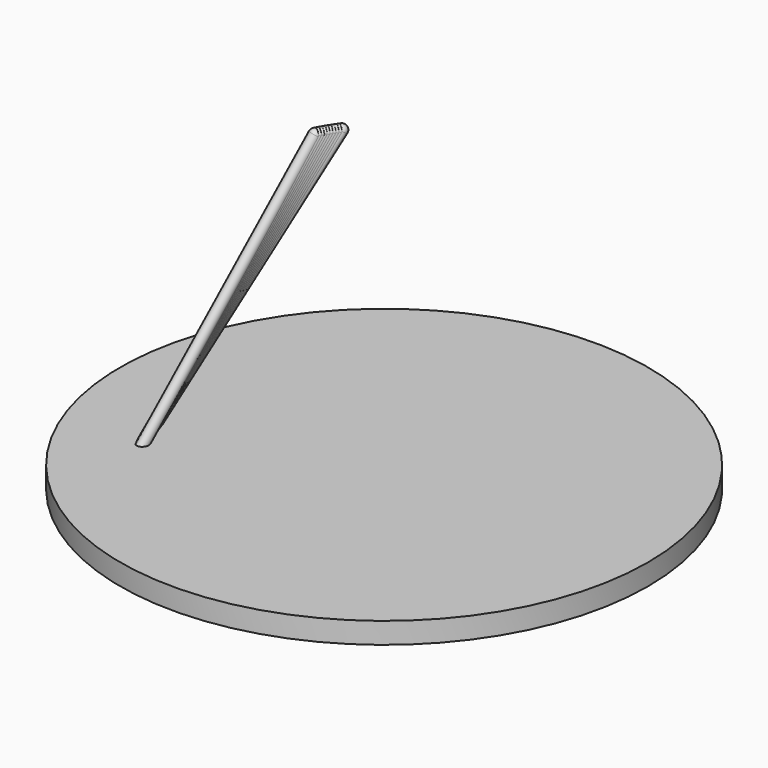
from build123d import *

# Parameters (mm, degrees)
F0_R     = 63.5
F0_R_2   = 12.7
F1_DEPTH = 5.08
F5_ANGLE = 70
F7_COUNT = 10
F7_ANGLE = 10


with BuildPart() as f1:
    # F0 (on Top) → F1 (new body)
    with BuildSketch(Plane.XY):
        Circle(F0_R)
        Circle(F0_R_2, mode=Mode.SUBTRACT)
        Circle(F0_R_2)
    extrude(amount=F1_DEPTH)


with BuildPart() as f3:
    # F2 (on Front) → F3 (revolve)
    with BuildSketch(Plane.XZ):
        Polygon((-19.1215575247, 61.0874523446), (-57.7548104137, 4.4245176234), (-56.7324640707, 3.7274735151), (-18.0992111818, 60.3904082363), align=None)
        with BuildLine():
            ThreePointArc((-17.4021670735, 61.4127545792), (-18.3292345978, 61.6062008838), (-19.1215575247, 61.0874523446))
            Line((-19.1215575247, 61.0874523446), (-18.0992111818, 60.3904082363))
            Line((-18.0992111818, 60.3904082363), (-17.4021670735, 61.4127545792))
        make_face()
    revolve(axis=Axis((-37.0673155721, 0, 32.5701140472), (-0.5633311882, 0, -0.8262311858)))


with BuildPart() as f3_1:
    # F5: moved
    add(f3.part.rotate(Axis((-32.9073406756, 0, 30.1420167089), (0, 0, 1)), F5_ANGLE))


with BuildPart() as f7_1:
    # F7: instance of F3
    add(f3_1.part.rotate(Axis((0, 0, 33.6908474565), (0, 0, -1)), 1 * F7_ANGLE / (F7_COUNT - 1)))


with BuildPart() as f7_2:
    # F7: instance of F3
    add(f3_1.part.rotate(Axis((0, 0, 33.6908474565), (0, 0, -1)), 2 * F7_ANGLE / (F7_COUNT - 1)))


with BuildPart() as f7_3:
    # F7: instance of F3
    add(f3_1.part.rotate(Axis((0, 0, 33.6908474565), (0, 0, -1)), 3 * F7_ANGLE / (F7_COUNT - 1)))


with BuildPart() as f7_4:
    # F7: instance of F3
    add(f3_1.part.rotate(Axis((0, 0, 33.6908474565), (0, 0, -1)), 4 * F7_ANGLE / (F7_COUNT - 1)))


with BuildPart() as f7_5:
    # F7: instance of F3
    add(f3_1.part.rotate(Axis((0, 0, 33.6908474565), (0, 0, -1)), 5 * F7_ANGLE / (F7_COUNT - 1)))


with BuildPart() as f7_6:
    # F7: instance of F3
    add(f3_1.part.rotate(Axis((0, 0, 33.6908474565), (0, 0, -1)), 6 * F7_ANGLE / (F7_COUNT - 1)))


with BuildPart() as f7_7:
    # F7: instance of F3
    add(f3_1.part.rotate(Axis((0, 0, 33.6908474565), (0, 0, -1)), 7 * F7_ANGLE / (F7_COUNT - 1)))


with BuildPart() as f7_8:
    # F7: instance of F3
    add(f3_1.part.rotate(Axis((0, 0, 33.6908474565), (0, 0, -1)), 8 * F7_ANGLE / (F7_COUNT - 1)))


with BuildPart() as f7_9:
    # F7: instance of F3
    add(f3_1.part.rotate(Axis((0, 0, 33.6908474565), (0, 0, -1)), 9 * F7_ANGLE / (F7_COUNT - 1)))


solid = Compound([f1.part, f3_1.part, f7_1.part, f7_2.part, f7_3.part, f7_4.part, f7_5.part, f7_6.part, f7_7.part, f7_8.part, f7_9.part])
